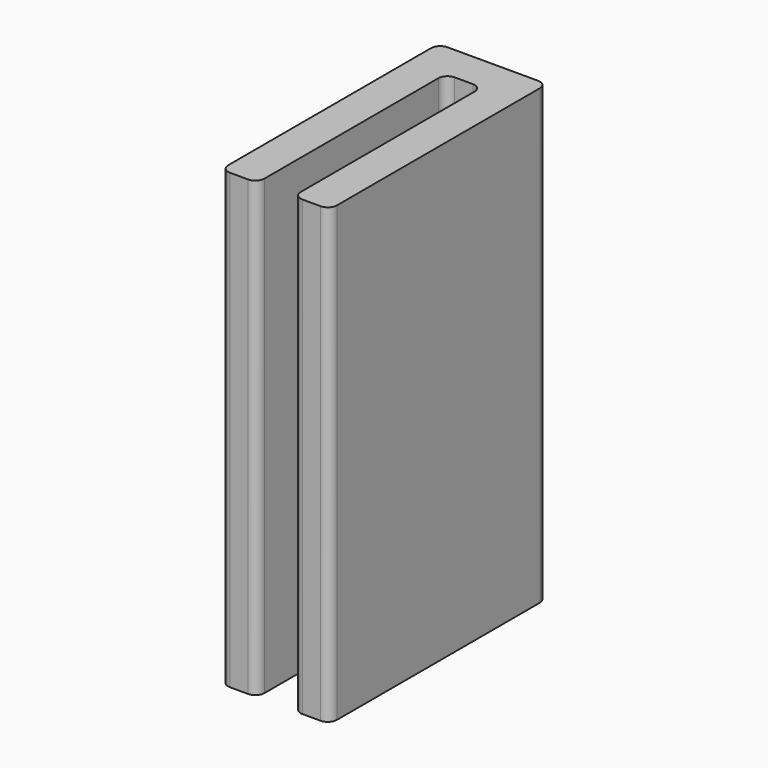
from build123d import *

# Parameters (mm, degrees)
F0_W     = 2
F0_H     = 2
F1_DEPTH = 25
F2_R     = 0.5


with BuildPart() as f1:
    # F0 (on Top) → F1 (new body)
    with BuildSketch(Plane.XY):
        Polygon((2, 0), (0, 0), (0, -15), (2, -15), (2, -2), align=None)
        with Locations((3, -1)):
            Rectangle(F0_W, F0_H)
        Polygon((6, 0), (4, 0), (4, -2), (4, -15), (6, -15), align=None)
    extrude(amount=F1_DEPTH)

    # F2
    f2_edges = [f1.edges().sort_by_distance(p)[0] for p in [
        (2, -2, 12.5),
        (4, -2, 12.5),
        (0, 0, 12.5),
        (6, 0, 12.5),
        (0, -15, 12.5),
        (2, -15, 12.5),
        (4, -15, 12.5),
        (6, -15, 12.5),
    ]]
    fillet(f2_edges, radius=F2_R)


solid = f1.part
